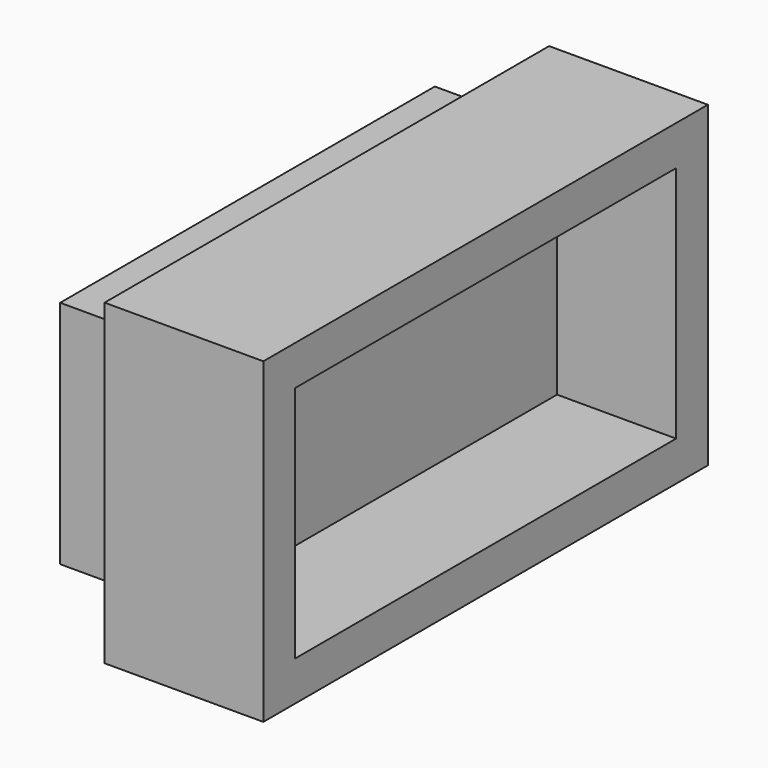
from build123d import *

# Parameters (mm, degrees)
F0_W     = 70
F0_H     = 40
F1_DEPTH = 20
F2_W     = 60
F2_H     = 30
F3_DEPTH = 15
F4_W     = 59
F4_H     = 29
F5_DEPTH = 10


with BuildPart() as f1:
    # F0 (on Right) → F1 (new body)
    with BuildSketch(Plane.YZ):
        with Locations((35, 20)):
            Rectangle(F0_W, F0_H)
    extrude(amount=F1_DEPTH)

    # F2 (on face) → F3 (cut)
    with BuildSketch(Plane.YZ.offset(20)):
        with Locations((35, 20)):
            Rectangle(F2_W, F2_H)
    extrude(amount=-F3_DEPTH, mode=Mode.SUBTRACT)

    # F4 (on face) → F5 (join)
    with BuildSketch(Plane(origin=(0, 0, 0), x_dir=(0, -1, 0), z_dir=(-1, 0, 0))):
        with Locations((-35, 20)):
            Rectangle(F4_W, F4_H)
    extrude(amount=F5_DEPTH)


solid = f1.part
